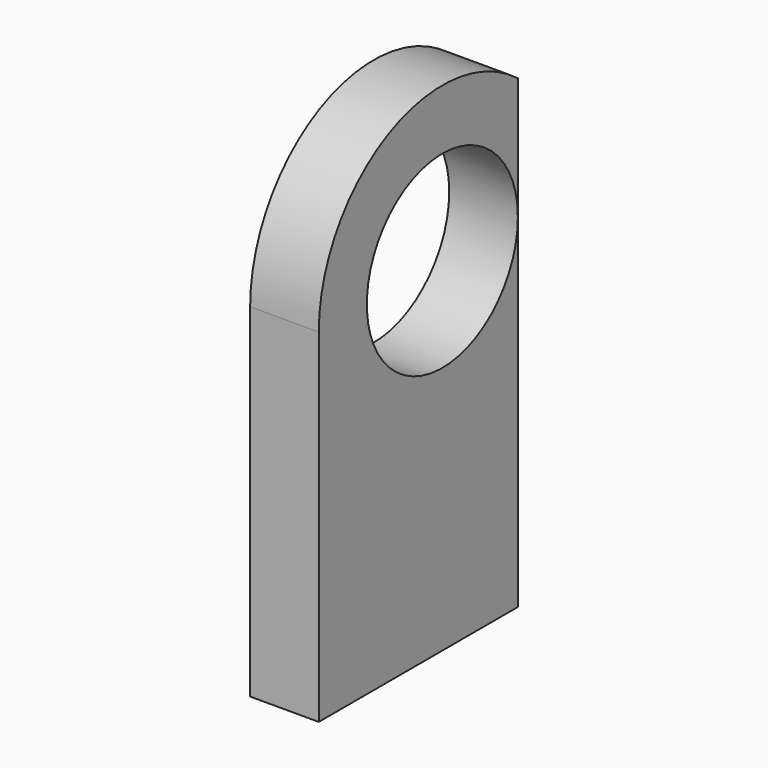
from build123d import *

# Parameters (mm, degrees)
SKETCH106_R      = 2.75
EXTRUDE024_DEPTH = 5
EXTRUDE023_DEPTH = 15
EXTRUDE022_DEPTH = 2


with BuildPart() as extrude024:
    # Sketch106 → Extrude024 (new body)
    with BuildSketch(Plane.YZ.offset(-2)):
        with Locations((2.75, 10)):
            Circle(SKETCH106_R)
    extrude(amount=EXTRUDE024_DEPTH)


with BuildPart() as extrude023:
    # Sketch105 → Extrude023 (new body)
    with BuildSketch(Plane.XY):
        Polygon((0, 5.5), (-1.75, 7.25), (0, 7.25), align=None)
    extrude(amount=EXTRUDE023_DEPTH)


with BuildPart() as cut019:
    # Sketch104 → Extrude022 (new body)
    with BuildSketch(Plane.YZ.offset(-2)):
        with BuildLine():
            Line((-1.75, 0), (7.25, 0))
            Line((7.25, 0), (7.25, 10))
            ThreePointArc((7.25, 10), (2.749999, 14.5), (-1.75, 9.999998))
            Line((-1.75, 0), (-1.75, 9.999998))
        make_face()
    extrude(amount=EXTRUDE022_DEPTH)

    # Cut018: cut Extrude023
    add(extrude023.part, mode=Mode.SUBTRACT)

    # Cut019: cut Extrude024
    add(extrude024.part, mode=Mode.SUBTRACT)


solid = cut019.part
